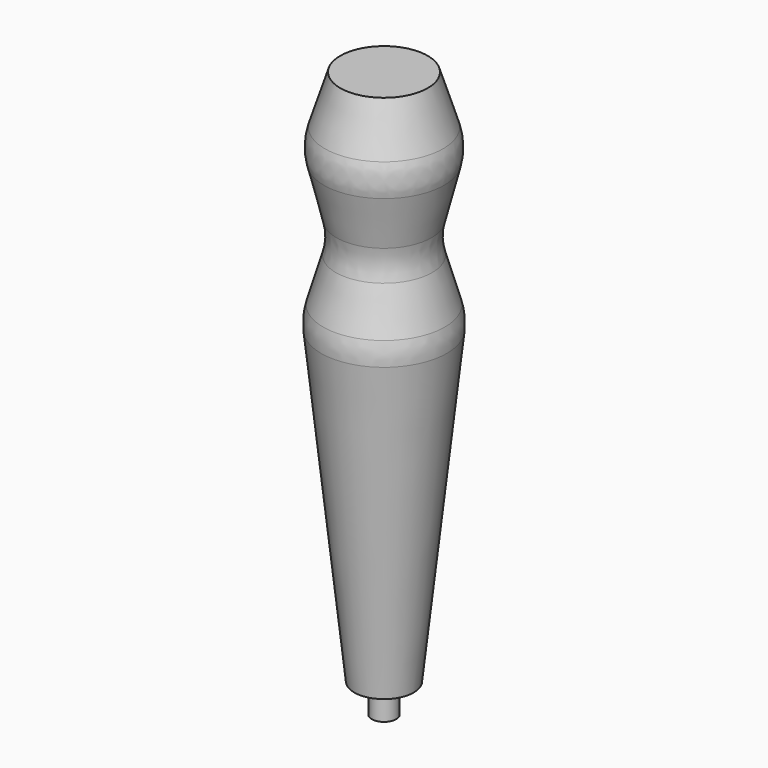
from build123d import *

# Parameters (mm, degrees)
F2_R = 10


with BuildPart() as f1:
    # F0 (on Front) → F1 (revolve)
    with BuildSketch(Plane.XZ):
        Polygon((-11, 55), (-5.1, 0), (-2.1, 0), (-2.1, -5), (0, -5), (0, 92), (-7.5, 92), (-11, 81), (-7.5, 67), align=None)
    revolve(axis=Axis((0, 0, 43.5), (0, 0, -1)))

    # F2
    f2_edges = [f1.edges().sort_by_distance(p)[0] for p in [
        (11, 0, 55),
        (7.5, 0, 67),
        (11, 0, 81),
    ]]
    fillet(f2_edges, radius=F2_R)


solid = f1.part
